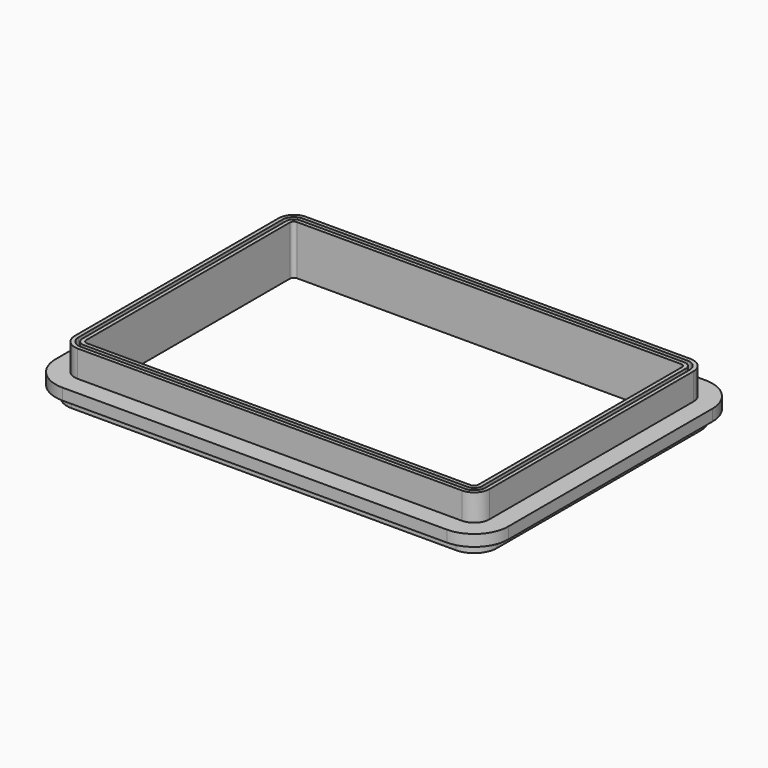
from build123d import *

# Parameters (mm, degrees)
PAD_DEPTH    = 3
PAD001_DEPTH = 10
POCKET_DEPTH = 10.001
PAD002_DEPTH = 10
PAD003_DEPTH = 3


with BuildPart() as body:
    # Sketch004 → Pad (new body)
    with BuildSketch(Plane.XY):
        with BuildLine():
            Line((-40.596243, 41.106321), (-40.596243, -25.893679))
            ThreePointArc((-40.596243, -25.893679), (-37.960204, -32.25764), (-31.596243, -34.893679))
            Line((-31.596243, -34.893679), (69.403757, -34.893679))
            ThreePointArc((69.403757, -34.893679), (75.767718, -32.25764), (78.403757, -25.893679))
            Line((78.403757, -25.893679), (78.403757, 41.106321))
            ThreePointArc((78.403757, 41.106321), (75.767718, 47.470282), (69.403757, 50.106321))
            Line((69.403757, 50.106321), (-31.596243, 50.106321))
            ThreePointArc((-31.596243, 50.106321), (-37.960204, 47.470282), (-40.596243, 41.106321))
        make_face()
        with BuildLine():
            Line((-35.596243, 41.106321), (-35.596243, -25.893679))
            ThreePointArc((-35.596243, -25.893679), (-34.42467, -28.722106), (-31.596243, -29.893679))
            Line((-31.596243, -29.893679), (69.403757, -29.893679))
            ThreePointArc((69.403757, -29.893679), (72.232184, -28.722106), (73.403757, -25.893679))
            Line((73.403757, -25.893679), (73.403757, 41.106321))
            ThreePointArc((73.403757, 41.106321), (72.232184, 43.934748), (69.403757, 45.106321))
            Line((69.403757, 45.106321), (-31.596243, 45.106321))
            ThreePointArc((-31.596243, 45.106321), (-34.42467, 43.934748), (-35.596243, 41.106321))
        make_face(mode=Mode.SUBTRACT)
    extrude(amount=PAD_DEPTH)

    # Sketch003 → Pad001 (join)
    with BuildSketch(Plane.XY):
        with BuildLine():
            Line((-35.596243, 41.106321), (-35.596243, -25.893679))
            ThreePointArc((-35.596243, -25.893679), (-34.42467, -28.722106), (-31.596243, -29.893679))
            Line((-31.596243, -29.893679), (69.403757, -29.893679))
            ThreePointArc((69.403757, -29.893679), (72.232184, -28.722106), (73.403757, -25.893679))
            Line((73.403757, -25.893679), (73.403757, 41.106321))
            ThreePointArc((73.403757, 41.106321), (72.232184, 43.934748), (69.403757, 45.106321))
            Line((69.403757, 45.106321), (-31.596243, 45.106321))
            ThreePointArc((-31.596243, 45.106321), (-34.42467, 43.934748), (-35.596243, 41.106321))
        make_face()
    extrude(amount=PAD001_DEPTH)

    # Sketch005 → Pocket (cut, through all)
    with BuildSketch(Plane(origin=(0, 0, 0), x_dir=(-1, 0, 0), z_dir=(0, 0, 1))):
        with BuildLine():
            Line((34.596243, -41.106321), (34.596243, 25.893679))
            ThreePointArc((34.596243, 25.893679), (33.717563, 28.014999), (31.596243, 28.893679))
            Line((31.596243, 28.893679), (-69.403757, 28.893679))
            ThreePointArc((-69.403757, 28.893679), (-71.525078, 28.014999), (-72.403757, 25.893679))
            Line((-72.403757, 25.893679), (-72.403757, -41.106321))
            ThreePointArc((-72.403757, -41.106321), (-71.525078, -43.227641), (-69.403757, -44.106321))
            Line((-69.403757, -44.106321), (31.596243, -44.106321))
            ThreePointArc((31.596243, -44.106321), (33.717563, -43.227641), (34.596243, -41.106321))
        make_face()
    extrude(amount=POCKET_DEPTH, mode=Mode.SUBTRACT)


with BuildPart() as body001:
    # Sketch009 → Pad002 (new body)
    with BuildSketch(Plane.XY):
        with BuildLine():
            Line((-33.596243, 41.106321), (-33.596243, -25.893679))
            ThreePointArc((-33.596243, -25.893679), (-33.010456, -27.307893), (-31.596243, -27.893679))
            Line((-31.596243, -27.893679), (69.403757, -27.893679))
            ThreePointArc((69.403757, -27.893679), (70.817971, -27.307893), (71.403757, -25.893679))
            Line((71.403757, -25.893679), (71.403757, 41.106321))
            ThreePointArc((71.403757, 41.106321), (70.817971, 42.520534), (69.403757, 43.106321))
            Line((69.403757, 43.106321), (-31.596243, 43.106321))
            ThreePointArc((-31.596243, 43.106321), (-33.010456, 42.520534), (-33.596243, 41.106321))
        make_face()
        with BuildLine():
            Line((-32.596243, 41.106321), (-32.596243, -25.893679))
            ThreePointArc((-32.596243, -25.893679), (-32.30335, -26.600786), (-31.596243, -26.893679))
            Line((-31.596243, -26.893679), (69.403757, -26.893679))
            ThreePointArc((69.403757, -26.893679), (70.110864, -26.600786), (70.403757, -25.893679))
            Line((70.403757, -25.893679), (70.403757, 41.106321))
            ThreePointArc((70.403757, 41.106321), (70.110864, 41.813428), (69.403757, 42.106321))
            Line((69.403757, 42.106321), (-31.596243, 42.106321))
            ThreePointArc((-31.596243, 42.106321), (-32.30335, 41.813428), (-32.596243, 41.106321))
        make_face(mode=Mode.SUBTRACT)
    extrude(amount=PAD002_DEPTH)

    # Sketch011 → Pad003 (join)
    with BuildSketch(Plane.XY):
        with BuildLine():
            Line((-37.596243, 41.106321), (-37.596243, -25.893679))
            ThreePointArc((-37.596243, -25.893679), (-35.838883, -30.13632), (-31.596243, -31.893679))
            Line((-31.596243, -31.893679), (69.403757, -31.893679))
            ThreePointArc((69.403757, -31.893679), (73.646398, -30.13632), (75.403757, -25.893679))
            Line((75.403757, -25.893679), (75.403757, 41.106321))
            ThreePointArc((75.403757, 41.106321), (73.646398, 45.348962), (69.403757, 47.106321))
            Line((69.403757, 47.106321), (-31.596243, 47.106321))
            ThreePointArc((-31.596243, 47.106321), (-35.838883, 45.348962), (-37.596243, 41.106321))
        make_face()
        with BuildLine():
            Line((-32.596243, 41.106321), (-32.596243, -25.893679))
            ThreePointArc((-32.596243, -25.893679), (-32.30335, -26.600786), (-31.596243, -26.893679))
            Line((-31.596243, -26.893679), (69.403757, -26.893679))
            ThreePointArc((69.403757, -26.893679), (70.110864, -26.600786), (70.403757, -25.893679))
            Line((70.403757, -25.893679), (70.403757, 41.106321))
            ThreePointArc((70.403757, 41.106321), (70.110864, 41.813428), (69.403757, 42.106321))
            Line((69.403757, 42.106321), (-31.596243, 42.106321))
            ThreePointArc((-31.596243, 42.106321), (-32.30335, 41.813428), (-32.596243, 41.106321))
        make_face(mode=Mode.SUBTRACT)
    extrude(amount=-PAD003_DEPTH)


solid = Compound([body.part, body001.part])
